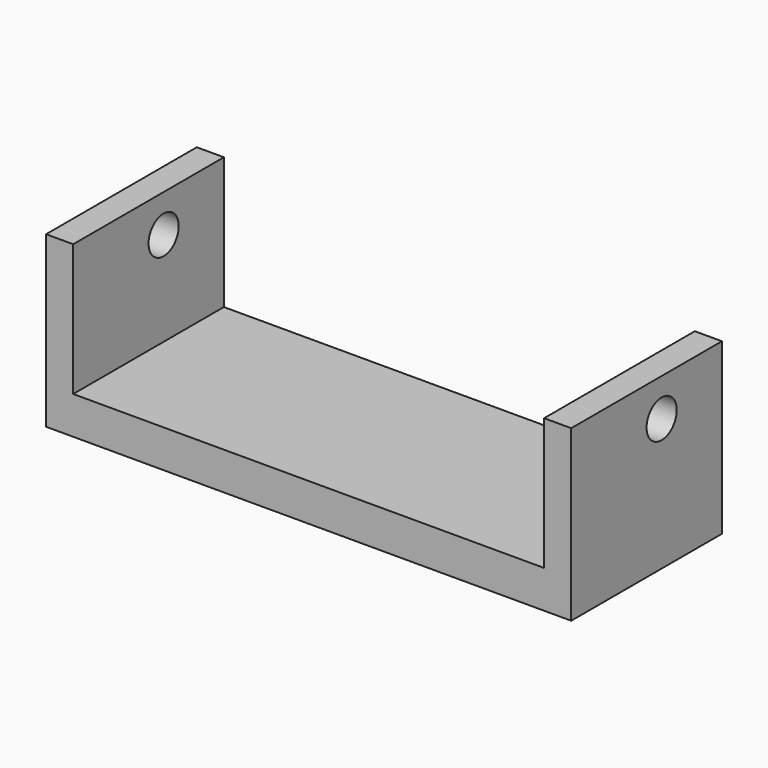
from build123d import *

# Parameters (mm, degrees)
F1_DEPTH = 63.5
F2_R     = 6.35
F3_DEPTH = 177.039


with BuildPart() as f1:
    # F0 (on Front) → F1 (new body)
    with BuildSketch(Plane.XZ):
        Polygon((9.144, 57.15), (0, 57.15), (0, 0), (177.038, 0), (177.038, 57.15), (167.894, 57.15), (167.894, 12.7), (9.144, 12.7), align=None)
    extrude(amount=F1_DEPTH)

    # F2 (on face) → F3 (cut, through all)
    with BuildSketch(Plane.YZ.offset(177.038)):
        with Locations((-25.4, 44.45)):
            Circle(F2_R)
    extrude(amount=-F3_DEPTH, mode=Mode.SUBTRACT)


solid = f1.part
